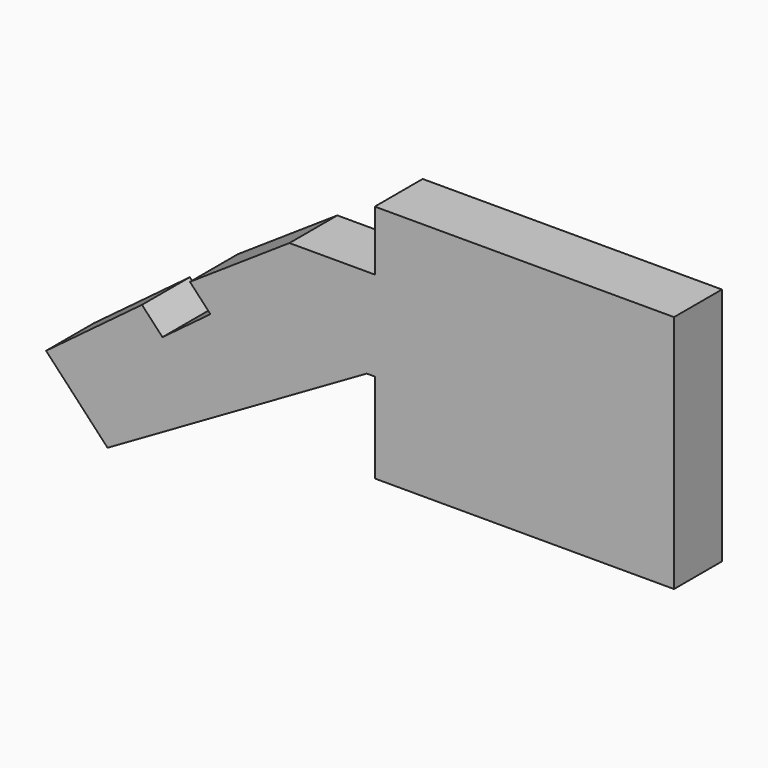
from build123d import *

# Parameters (mm, degrees)
F1_DEPTH = 30
F2_DEPTH = 30


with BuildPart() as f1:
    # F0 (on Front) → F1 (new body)
    with BuildSketch(Plane.XZ):
        Polygon((77.217535, 9.49032), (0, 9.49032), (0, -35.50968), (150, -35.50968), (150, 84.49032), (0, 84.49032), (0, 54.49032), (77.217535, 54.49032), align=None)
    extrude(amount=F1_DEPTH)

    # F0 (on Front) → F2 (join)
    with BuildSketch(Plane.XZ):
        Polygon((-116.699375, 3.193665), (-164.76715, -32.71579), (-133.952207, -65.50968), (-4.048397, 9.49032), (0, 9.49032), (77.217535, 9.49032), (77.217535, 54.49032), (0, 54.49032), (-42.782465, 54.49032), (-92.665487, 21.148392), (-82.393839, 10.217095), (-106.427727, -7.737632), align=None)
        Polygon((77.217535, 9.49032), (0, 9.49032), (0, -35.50968), (150, -35.50968), (150, 84.49032), (0, 84.49032), (0, 54.49032), (77.217535, 54.49032), align=None)
    extrude(amount=F2_DEPTH)


solid = f1.part
